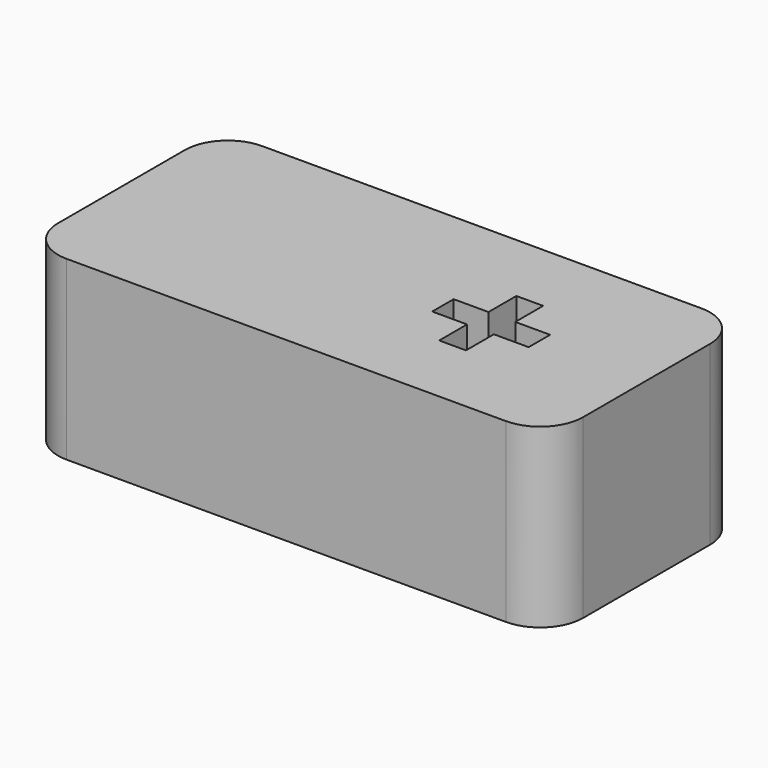
from build123d import *

# Parameters (mm, degrees)
SKETCH_W  = 24.5
SKETCH_H  = 11.4
PAD_DEPTH = 8.25
FILLET_R  = 2


with BuildPart() as part:
    # Sketch → Pad (new body)
    with BuildSketch(Plane.XY):
        with Locations((12.25, 5.7)):
            Rectangle(SKETCH_W, SKETCH_H)
        Polygon((16.625, 7.95), (17.875, 7.95), (17.875, 6.325), (19.5, 6.325), (19.5, 5.075), (17.875, 5.075), (17.875, 3.45), (16.625, 3.45), (16.625, 5.075), (15, 5.075), (15, 6.325), (16.625, 6.325), align=None, mode=Mode.SUBTRACT)
    extrude(amount=PAD_DEPTH)

    # Fillet
    fillet_edges = [part.edges().sort_by_distance(p)[0] for p in [
        (24.5, 0, 4.125),
        (0, 0, 4.125),
        (24.5, 11.4, 4.125),
        (0, 11.4, 4.125),
    ]]
    fillet(fillet_edges, radius=FILLET_R)


solid = part.part
